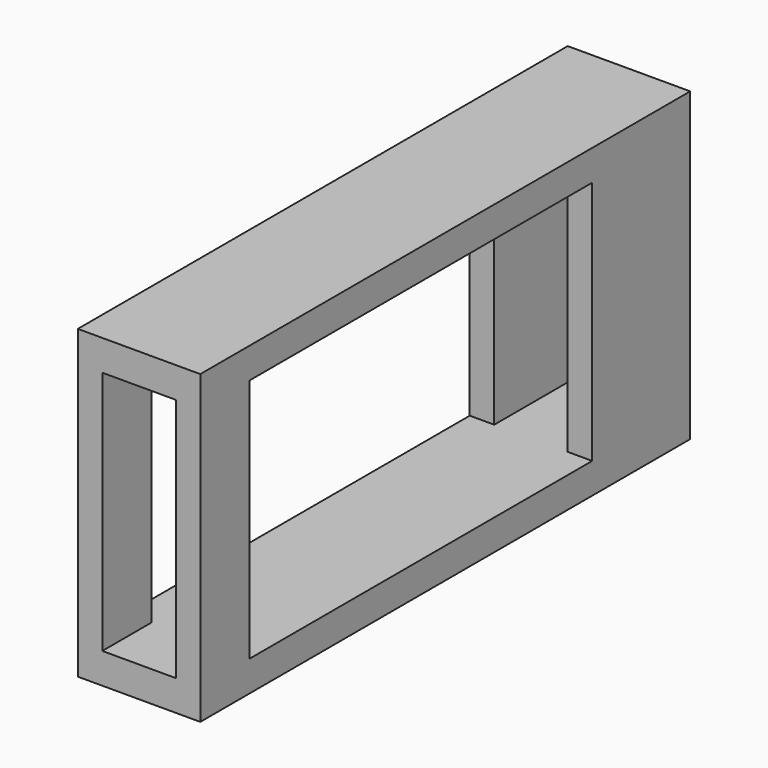
from build123d import *

# Parameters (mm, degrees)
F0_W     = 20
F0_H     = 50
F0_W_2   = 12
F0_H_2   = 40
F1_DEPTH = 100
F2_W     = 70
F2_H     = 40
F3_DEPTH = 25


with BuildPart() as f1:
    # F0 (on Front) → F1 (new body)
    with BuildSketch(Plane.XZ):
        with Locations((10, -25)):
            Rectangle(F0_W, F0_H)
        with Locations((10, -25)):
            Rectangle(F0_W_2, F0_H_2, mode=Mode.SUBTRACT)
    extrude(amount=F1_DEPTH)

    # F2 (on face) → F3 (cut)
    with BuildSketch(Plane.YZ.offset(20)):
        with Locations((-55, -25)):
            Rectangle(F2_W, F2_H)
    extrude(amount=-F3_DEPTH, mode=Mode.SUBTRACT)


solid = f1.part
